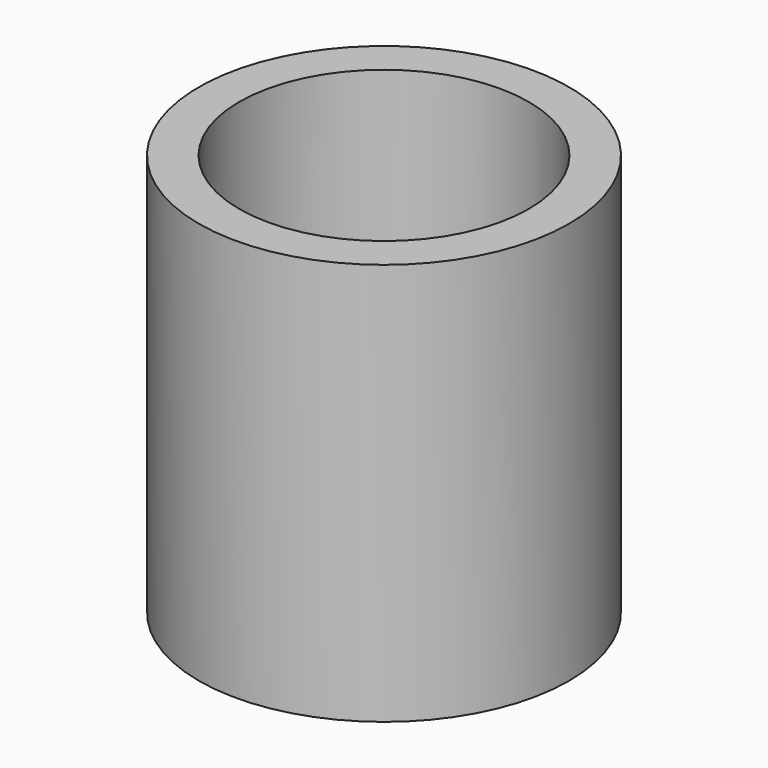
from build123d import *

# Parameters (mm, degrees)
CYLINDER017_R     = 1.8
CYLINDER017_DEPTH = 5
CYLINDER016_R     = 2.3
CYLINDER016_DEPTH = 5


with BuildPart() as cylinder017:
    # Cylinder017 → Cylinder017 (new body)
    with BuildSketch(Plane(origin=(5, 0, -1), x_dir=(1, 0, 0), z_dir=(0, 0, 1))):
        Circle(CYLINDER017_R)
    extrude(amount=CYLINDER017_DEPTH)


with BuildPart() as cut007:
    # Cylinder016 → Cylinder016 (new body)
    with BuildSketch(Plane(origin=(5, 0, -1), x_dir=(1, 0, 0), z_dir=(0, 0, 1))):
        Circle(CYLINDER016_R)
    extrude(amount=CYLINDER016_DEPTH)

    # Cut007: cut Cylinder017
    add(cylinder017.part, mode=Mode.SUBTRACT)


solid = cut007.part
